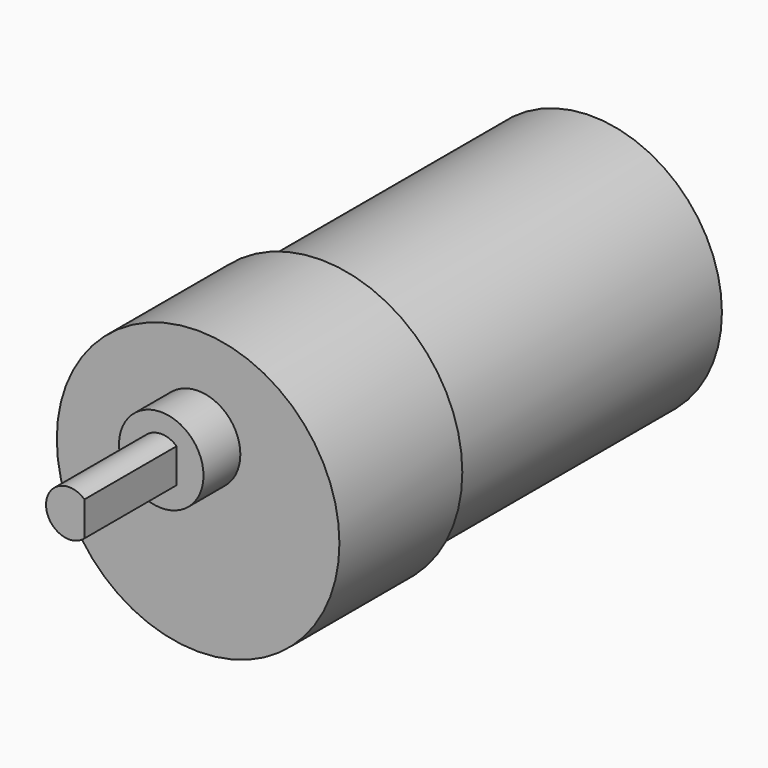
from build123d import *

# Parameters (mm, degrees)
CYLINDER014_R        = 17
CYLINDER014_DEPTH    = 14
CYLINDER015_R        = 5.5
CYLINDER015_DEPTH    = 6
CYLINDER013_R        = 17
CYLINDER013_DEPTH    = 30
BOX002_W             = 11
BOX002_H             = 10
BOX002_DEPTH         = 21
CYLINDER016_R        = 3
CYLINDER016_DEPTH    = 15
CYLINDER012_R        = 18.4
CYLINDER012_DEPTH    = 20
FUSION002_ROLL_ANGLE = 90


with BuildPart() as encoder001:
    # Cylinder014 → Cylinder014 (new body)
    with BuildSketch(Plane(origin=(0, -298, 0), x_dir=(1, 0, 0), z_dir=(0, 0, 1))):
        Circle(CYLINDER014_R)
    extrude(amount=CYLINDER014_DEPTH)


with BuildPart() as cilindro002:
    # Cylinder015 → Cylinder015 (new body)
    with BuildSketch(Plane(origin=(0, -292, 64), x_dir=(1, 0, 0), z_dir=(0, 0, 1))):
        Circle(CYLINDER015_R)
    extrude(amount=CYLINDER015_DEPTH)


with BuildPart() as motor001:
    # Cylinder013 → Cylinder013 (new body)
    with BuildSketch(Plane(origin=(0, -298, 14), x_dir=(1, 0, 0), z_dir=(0, 0, 1))):
        Circle(CYLINDER013_R)
    extrude(amount=CYLINDER013_DEPTH)


with BuildPart() as cubo001:
    # Box002 → Box002 (new body)
    with BuildSketch(Plane(origin=(2, -191, -2), x_dir=(1, 0, 0), z_dir=(0, 0, 1))):
        with Locations((5.5, 5)):
            Rectangle(BOX002_W, BOX002_H)
    extrude(amount=BOX002_DEPTH)


with BuildPart() as cut001:
    # Cylinder016 → Cylinder016 (new body)
    with BuildSketch(Plane(origin=(0, -186, 0), x_dir=(1, 0, 0), z_dir=(0, 0, 1))):
        Circle(CYLINDER016_R)
    extrude(amount=CYLINDER016_DEPTH)

    # Cut001: cut Cubo001
    add(cubo001.part, mode=Mode.SUBTRACT)


with BuildPart() as cut001_1:
    # Cut001 placement: moved
    add(cut001.part.moved(Location((0, -106, 70))))


with BuildPart() as obj1:
    # Cylinder012 → Cylinder012 (new body)
    with BuildSketch(Plane(origin=(0, -298, 44), x_dir=(1, 0, 0), z_dir=(0, 0, 1))):
        Circle(CYLINDER012_R)
    extrude(amount=CYLINDER012_DEPTH)

    # Fusion002: union Encoder001, Cilindro002, Motor001, Cut001
    add(encoder001.part)
    add(cilindro002.part)
    add(motor001.part)
    add(cut001_1.part)


with BuildPart() as obj1_1:
    # Fusion002 roll: moved
    add(obj1.part.rotate(Axis((0, 0, 0), (1, 0, 0)), FUSION002_ROLL_ANGLE))


with BuildPart() as obj1_2:
    # Fusion002 placement: moved
    add(obj1_1.part.moved(Location((43, -75, 283))))


solid = obj1_2.part
